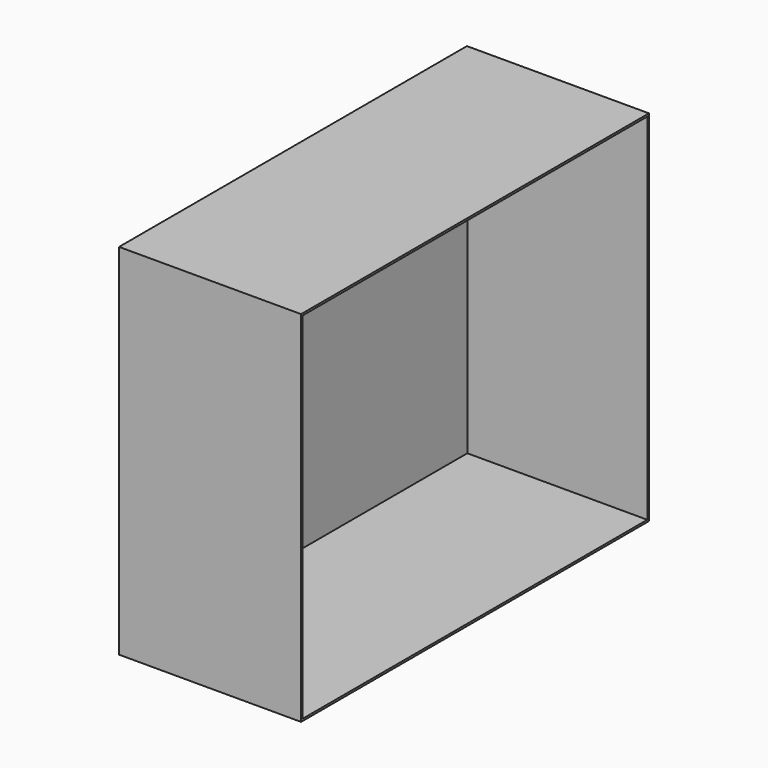
from build123d import *

# Parameters (mm, degrees)
F0_W     = 228.6
F0_H     = 450.85
F1_DEPTH = 546.1
F2_T     = -2.54


with BuildPart() as f1:
    # F0 (on Front) → F1 (new body)
    with BuildSketch(Plane.XZ):
        Rectangle(F0_W, F0_H)
    extrude(amount=-F1_DEPTH)

    # F2
    f2_openings = [f1.faces().sort_by_distance(p)[0] for p in [
        (114.3, 273.05, 0),
    ]]
    offset(amount=F2_T, openings=f2_openings)


solid = f1.part
